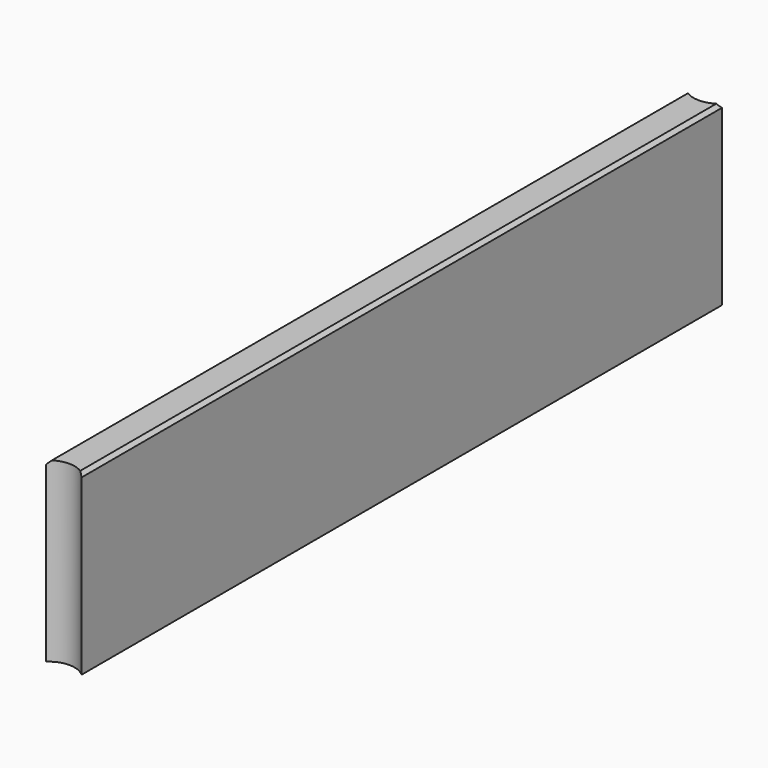
from build123d import *

# Parameters (mm, degrees)
F1_DEPTH = 1000
F2_SIZE  = 20


with BuildPart() as f1:
    # F0 (on Top) → F1 (new body)
    with BuildSketch(Plane.XY):
        with BuildLine():
            ThreePointArc((-100, 111.803399), (0, 151.041804), (100, 111.803399))
            Line((100, 111.803399), (100, 4628.196601))
            ThreePointArc((100, 4628.196601), (0, 4590.5164), (-100, 4628.196601))
            Line((-100, 4628.196601), (-100, 111.803399))
        make_face()
    extrude(amount=F1_DEPTH)

    # F2
    f2_edges = [f1.edges().sort_by_distance(p)[0] for p in [
        (100, 2370, 1000),
        (-100, 2370, 1000),
    ]]
    chamfer(f2_edges, length=F2_SIZE)


solid = f1.part
